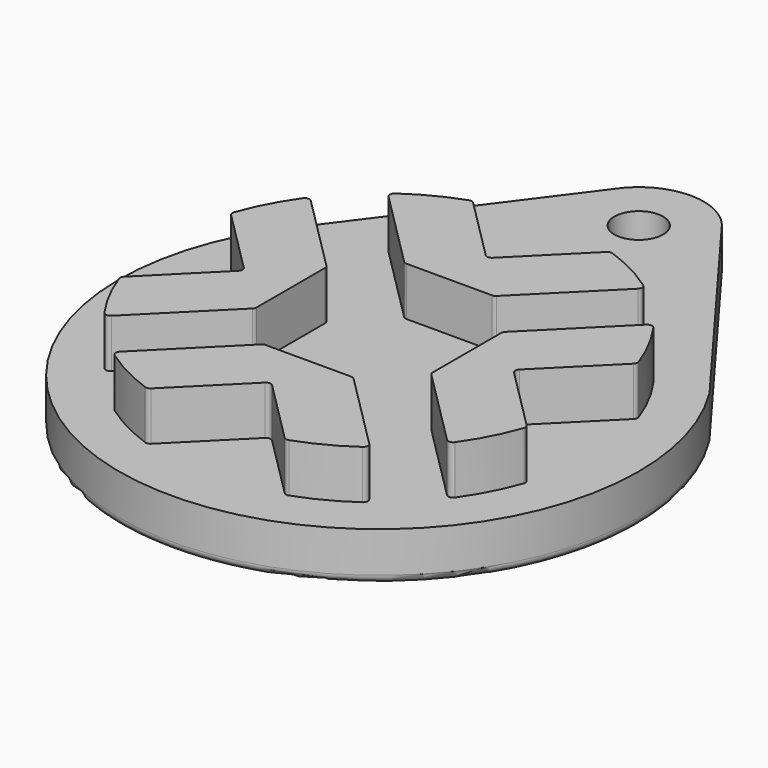
from build123d import *

# Parameters (mm, degrees)
SKETCH_R           = 1.5
PAD_DEPTH          = 3
PAD001_DEPTH       = 3
POLARPATTERN_COUNT = 4
FILLET_R           = 0.3
FILLET001_R        = 0.5
FILLET002_R        = 0.3
FILLET003_R        = 0.3
FILLET004_R        = 0.3


with BuildPart() as part:
    # Sketch → Pad (new body)
    with BuildSketch(Plane.XY):
        with BuildLine():
            Line((-13.555442, 8.5), (-3.039737, 22.6))
            ThreePointArc((3.039737, 22.6), (0, 24), (-3.039737, 22.6))
            Line((3.039737, 22.6), (13.555442, 8.5))
            ThreePointArc((-13.555442, 8.5), (0, -16), (13.555442, 8.5))
        make_face()
        with Locations((0, 20)):
            Circle(SKETCH_R, mode=Mode.SUBTRACT)
    extrude(amount=-PAD_DEPTH)

    # Sketch001 (on Face6 of Pad) → Pad001 (join)
    with BuildSketch(Plane.XY):
        with BuildLine():
            Line((-2.76, 5.42), (2.76, 5.42))
            Line((2.76, 5.42), (7.92188, 10.58188))
            ThreePointArc((7.92188, 10.58188), (6.158918, 11.696157), (4.242641, 12.519279))
            Line((4.242641, 12.519279), (0, 8.276638))
            Line((0, 8.276638), (-4.242641, 12.519279))
            ThreePointArc((-4.242641, 12.519279), (-6.158918, 11.696157), (-7.92188, 10.58188))
            Line((-7.92188, 10.58188), (-2.76, 5.42))
        make_face()
    pad001 = extrude(amount=PAD001_DEPTH)

    # PolarPattern: Pad001 ×4 about axis
    polarpattern_axis = Axis((0, 0, 0), (0, 0, 1))
    for i in range(1, POLARPATTERN_COUNT):
        add(pad001.rotate(polarpattern_axis, i * 360 / POLARPATTERN_COUNT))

    # Fillet
    fillet_edges = [part.edges().sort_by_distance(p)[0] for p in [
        (-4.242641, 12.519279, 1.5),
        (0, 8.276638, 1.5),
        (4.242641, 12.519279, 1.5),
        (7.92188, 10.58188, 1.5),
        (2.76, 5.42, 1.5),
        (-2.76, 5.42, 1.5),
        (-7.92188, 10.58188, 1.5),
    ]]
    fillet(fillet_edges, radius=FILLET_R)

    # Fillet001
    fillet001_edges = [part.edges().sort_by_distance(p)[0] for p in [
        (-8.297589, 15.55, -3),
        (0, -16, -3),
        (8.297589, 15.55, -3),
        (0, 24, -3),
        (-1.5, 20, -3),
    ]]
    fillet(fillet001_edges, radius=FILLET001_R)

    # Fillet002
    fillet002_edges = [part.edges().sort_by_distance(p)[0] for p in [
        (-10.58188, 7.92188, 1.5),
        (-5.42, 2.76, 1.5),
        (-5.42, -2.76, 1.5),
        (-10.58188, -7.92188, 1.5),
        (-12.519279, -4.242641, 1.5),
        (-12.519279, 4.242641, 1.5),
        (-8.276638, 0, 1.5),
    ]]
    fillet(fillet002_edges, radius=FILLET002_R)

    # Fillet003
    fillet003_edges = [part.edges().sort_by_distance(p)[0] for p in [
        (-7.92188, -10.58188, 1.5),
        (-4.242641, -12.519279, 1.5),
        (4.242641, -12.519279, 1.5),
        (7.92188, -10.58188, 1.5),
        (0, -8.276638, 1.5),
        (-2.76, -5.42, 1.5),
        (2.76, -5.42, 1.5),
    ]]
    fillet(fillet003_edges, radius=FILLET003_R)

    # Fillet004
    fillet004_edges = [part.edges().sort_by_distance(p)[0] for p in [
        (10.58188, -7.92188, 1.5),
        (12.519279, -4.242641, 1.5),
        (12.519279, 4.242641, 1.5),
        (10.58188, 7.92188, 1.5),
        (8.276638, 0, 1.5),
        (5.42, -2.76, 1.5),
        (5.42, 2.76, 1.5),
    ]]
    fillet(fillet004_edges, radius=FILLET004_R)


solid = part.part
